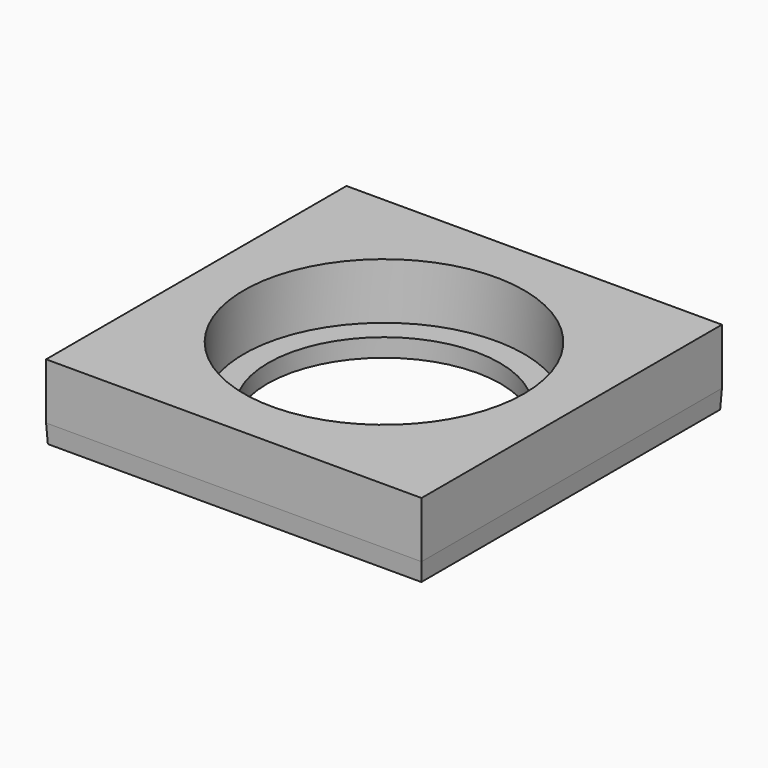
from build123d import *

# Parameters (mm, degrees)
F0_W     = 40
F0_H     = 40
F0_R     = 12.5
F1_DEPTH = 2
F1_TAPER = -3
F2_W     = 40.2096311171
F2_H     = 40.2096311171
F2_R     = 15
F3_DEPTH = 6


with BuildPart() as f1:
    # F0 (on Top) → F1 (new body)
    with BuildSketch(Plane.XY):
        Rectangle(F0_W, F0_H)
        Circle(F0_R, mode=Mode.SUBTRACT)
    extrude(amount=F1_DEPTH, taper=F1_TAPER)

    # F2 (on face) → F3 (join)
    with BuildSketch(Plane.XY.offset(2)):
        Rectangle(F2_W, F2_H)
        Circle(F2_R, mode=Mode.SUBTRACT)
    extrude(amount=F3_DEPTH)


solid = f1.part
